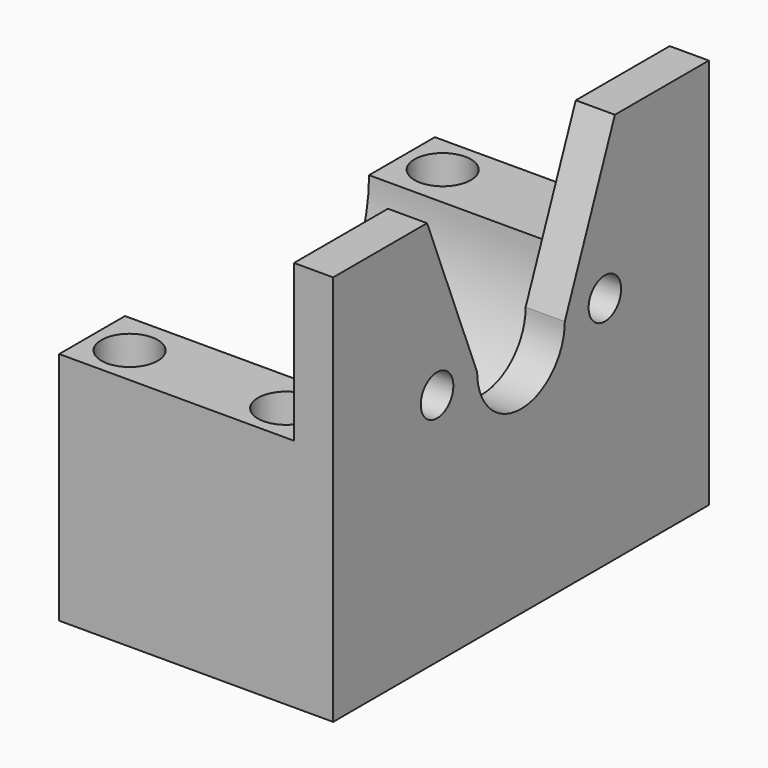
from build123d import *

# Parameters (mm, degrees)
PAD032_DEPTH    = 19.05
SKETCH066_R     = 2.286
POCKET002_DEPTH = 6.223
SKETCH067_R     = 2.286
POCKET003_DEPTH = 6.223
SKETCH068_R     = 1.651
PAD041_DEPTH    = 3.175


with BuildPart() as part:
    # Sketch065 → Pad032 (new body)
    with BuildSketch(Plane.YZ):
        with BuildLine():
            Line((-19.05, 9.525), (-19.05, -9.525))
            Line((-19.05, -9.525), (19.05, -9.525))
            Line((19.05, -9.525), (19.05, 9.525))
            Line((19.05, 9.525), (12.375, 9.525))
            ThreePointArc((-12.375, 9.525), (0, -2.85), (12.375, 9.525))
            Line((-12.375, 9.525), (-19.05, 9.525))
        make_face()
    extrude(amount=PAD032_DEPTH)

    # Sketch066 (on Face6 of Pad032) → Pocket002 (cut)
    with BuildSketch(Plane(origin=(0, 0, 9.525), x_dir=(0, -1, 0), z_dir=(0, 0, 1))):
        with Locations((15.875, 15.875)):
            Circle(SKETCH066_R)
        with Locations((15.875, 3.175)):
            Circle(SKETCH066_R)
        with Locations((-15.875, 15.875)):
            Circle(SKETCH066_R)
        with Locations((-15.875, 3.175)):
            Circle(SKETCH066_R)
    extrude(amount=-POCKET002_DEPTH, mode=Mode.SUBTRACT)

    # Sketch067 (on Face2 of Pad032) → Pocket003 (cut)
    with BuildSketch(Plane.YX.offset(9.525)):
        with Locations((15.875, 15.875)):
            Circle(SKETCH067_R)
        with Locations((15.875, 3.175)):
            Circle(SKETCH067_R)
        with Locations((-15.875, 15.875)):
            Circle(SKETCH067_R)
        with Locations((-15.875, 3.175)):
            Circle(SKETCH067_R)
    extrude(amount=-POCKET003_DEPTH, mode=Mode.SUBTRACT)

    # Sketch068 (on Face5 of Pocket003) → Pad041 (join)
    with BuildSketch(Plane.YZ.offset(19.05)):
        with BuildLine():
            Line((-19.05, -9.525), (19.05, -9.525))
            Line((19.05, -9.525), (19.05, 22.225))
            Line((19.05, 22.225), (9.525, 22.225))
            Line((9.525, 22.225), (4.445, 9.525))
            ThreePointArc((-4.445, 9.525), (0, 5.08), (4.445, 9.525))
            Line((-9.525, 22.225), (-4.445, 9.525))
            Line((-19.05, 22.225), (-9.525, 22.225))
            Line((-19.05, -9.525), (-19.05, 22.225))
        make_face()
        with Locations((-8.509, 9.525)):
            Circle(SKETCH068_R, mode=Mode.SUBTRACT)
        with Locations((8.509, 9.525)):
            Circle(SKETCH068_R, mode=Mode.SUBTRACT)
    extrude(amount=PAD041_DEPTH)


with BuildPart() as part_1:
    # Body026 placement: moved
    add(part.part.moved(Location((-21.5138, 40.6146, -8.9154))))


solid = part_1.part
